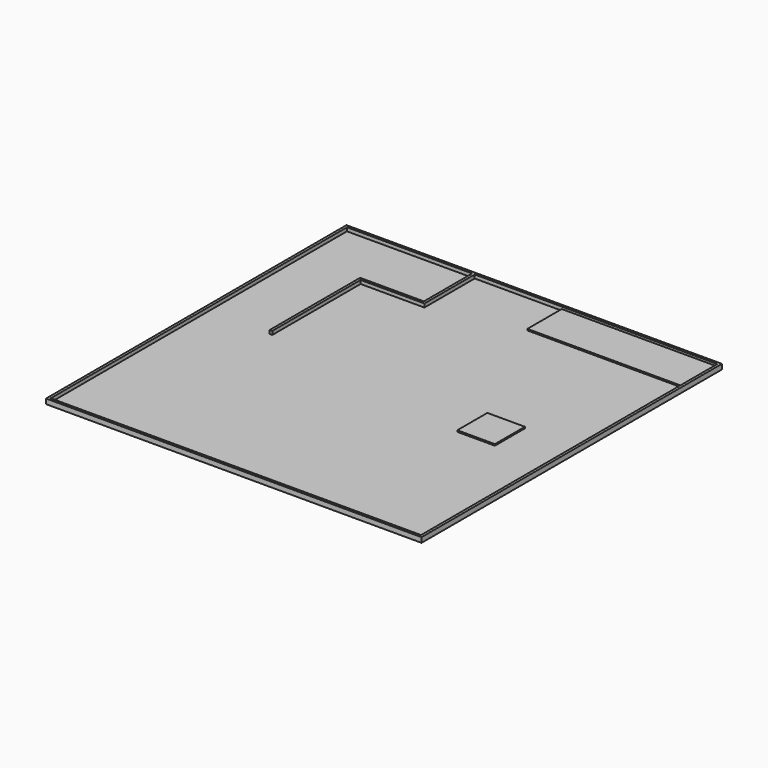
from build123d import *

# Parameters (mm, degrees)
F0_W     = 210
F0_H     = 210
F1_DEPTH = 0.8
F2_W     = 210
F2_H     = 210
F2_W_2   = 207.12
F2_H_2   = 207.12
F3_DEPTH = 2
F5_DEPTH = 2
F6_W     = 87
F6_H     = 24
F6_W_2   = 21
F6_H_2   = 21
F7_DEPTH = 0.8


with BuildPart() as f1:
    # F0 (on Top) → F1 (new body)
    with BuildSketch(Plane.XY):
        with Locations((105, 105)):
            Rectangle(F0_W, F0_H)
    extrude(amount=F1_DEPTH)

    # F2 (on face) → F3 (join)
    with BuildSketch(Plane.XY.offset(0.8)):
        with Locations((105, 105)):
            Rectangle(F2_W, F2_H)
        with Locations((105, 105)):
            Rectangle(F2_W_2, F2_H_2, mode=Mode.SUBTRACT)
    extrude(amount=F3_DEPTH)

    # F4 (on face) → F5 (join, through all)
    with BuildSketch(Plane.XY.offset(0.8)):
        Polygon((72.889231, 173.372308), (72.889231, 208.56), (71.449231, 208.56), (71.449231, 174.812308), (35.766923, 174.812308), (35.766923, 111.636923), (37.206923, 111.636923), (37.206923, 173.372308), align=None)
    extrude(amount=F5_DEPTH)

    # F6 (on face) → F7 (join)
    with BuildSketch(Plane.XY.offset(0.8)):
        with Locations((165.06, 196.56)):
            Rectangle(F6_W, F6_H)
        with Locations((168.06, 101.06)):
            Rectangle(F6_W_2, F6_H_2)
    extrude(amount=F7_DEPTH)


solid = f1.part
